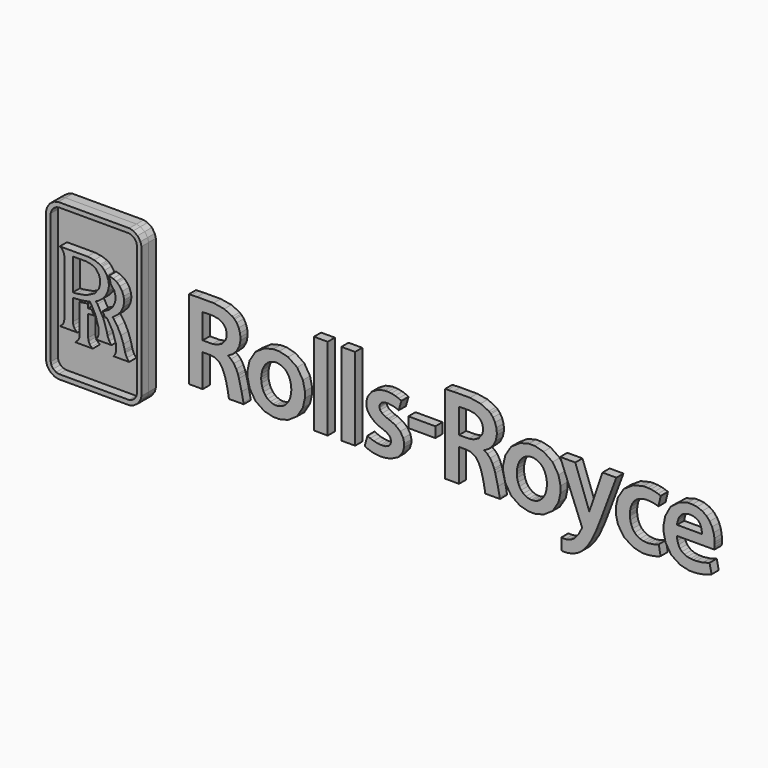
from build123d import *

# Parameters (mm, degrees)
F1_DEPTH = 2.54
F0_W     = 7.659116
F0_H     = 2.943479
F3_DEPTH = 2.54
F5_DEPTH = 0.762
F7_DEPTH = 2.54


with BuildPart() as f1:
    # F0 (on Front) → F1 (new body)
    with BuildSketch(Plane.XZ):
        Polygon((-18.839561, -11.3715292), (-18.648045, -11.3715292), (-14.935835, -11.3715292), (-14.935835, 12.034393), (-18.839561, 12.034393), align=None)
    extrude(amount=F1_DEPTH)

    # F4 (on Front) → F5 (cut)
    with BuildSketch(Plane.XZ):
        Polygon((-82.980657, 2.0863814), (-82.8097658, 2.1552662), (-82.8097658, 7.211187), (-80.1225982, 7.211187), (-80.1708074, 7.350379), (-80.5208448, 7.965059), (-81.0072802, 8.472297), (-81.1244504, 8.557641), (-86.5029004, 8.557641), (-86.3995732, 8.490077), (-86.0922586, 8.275193), (-85.6678246, 7.832725), (-85.3343226, 7.117461), (-85.1992708, 6.293485), (-85.1992708, 6.017895), (-85.1992708, 1.5571978), (-84.9760302, 1.590294), align=None)
    extrude(amount=-F5_DEPTH, mode=Mode.SUBTRACT)


with BuildPart() as f1b:
    # F0 (on Front) → F1, piece 2 (new body)
    with BuildSketch(Plane.XZ):
        Polygon((-11.074781, -11.3715292), (-10.883011, -11.3715292), (-7.169023, -11.3715292), (-7.169023, 12.034393), (-11.074781, 12.034393), align=None)
    extrude(amount=F1_DEPTH)


with BuildPart() as f1c:
    # F0 (on Front) → F1, piece 3 (new body)
    with BuildSketch(Plane.XZ):
        Polygon((51.252755, -15.235555), (51.252755, -18.5001154), (51.679983, -18.5717942), (53.004339, -18.559399), (54.617747, -18.1942232), (56.047005, -17.5024288), (56.973089, -16.8354756), (57.247155, -16.5777672), (57.627393, -16.2181032), (58.640091, -15.0026878), (59.909583, -12.956286), (61.202189, -10.1809042), (62.318265, -7.3669398), (62.668277, -6.4216534), (66.765297, 4.502023), (66.849371, 4.737735), (62.923293, 4.737735), (62.880621, 4.630293), (59.190255, -6.2107826), (55.262653, 4.630293), (55.219981, 4.737735), (50.932969, 4.737735), (51.017043, 4.502023), (57.140983, -10.8396278), (57.018555, -11.1799878), (56.220487, -12.7054864), (55.285005, -13.933297), (55.093235, -14.1262354), (54.912641, -14.2984982), (54.288563, -14.7298156), (53.363749, -15.1266906), (52.344193, -15.300325), (51.519963, -15.281021), align=None)
    extrude(amount=F1_DEPTH)


with BuildPart() as f1d:
    # F0 (on Front) → F1, piece 4 (new body)
    with BuildSketch(Plane.XZ):
        Polygon((43.753405, 5.144135), (42.930699, 5.144135), (42.103675, 5.144135), (39.626159, 4.524121), (37.057711, 2.7836622), (35.392741, 0.1102868), (34.801683, -2.4529034), (34.801683, -3.3086294), (34.801683, -4.1726866), (35.387153, -6.7647566), (37.040947, -9.438132), (39.606855, -11.1648494), (42.099865, -11.7780816), (42.930699, -11.7780816), (43.760263, -11.7780816), (46.248955, -11.1648494), (48.808005, -9.438132), (50.456211, -6.7647566), (51.039141, -4.1726866), (51.039141, -3.3086294), (51.039141, -2.4529034), (50.446559, 0.1102868), (48.784637, 2.7836622), (46.222793, 4.524121), align=None)
        Polygon((43.130597, -8.6416388), (42.908855, -8.6416388), (42.688383, -8.6416388), (42.028237, -8.5438234), (41.219247, -8.2599276), (40.495855, -7.8010258), (39.874063, -7.1795386), (39.364285, -6.4050926), (38.984047, -5.4900576), (38.745541, -4.446905), (38.662991, -3.5759898), (38.662991, -3.2865822), (38.662991, -2.9958284), (38.745541, -2.1249132), (38.984047, -1.0803382), (39.364285, -0.1653286), (39.874063, 0.6091174), (40.495855, 1.2320016), (41.219247, 1.690878), (42.028237, 1.9747484), (42.688383, 2.071243), (42.908855, 2.071243), (43.132121, 2.071243), (43.802935, 1.9747484), (44.620053, 1.690878), (45.346493, 1.2320016), (45.970571, 0.6091174), (46.479333, -0.1653286), (46.858047, -1.0803382), (47.095283, -2.1249132), (47.177833, -2.9958284), (47.177833, -3.2865822), (47.177833, -3.5759898), (47.093759, -4.446905), (46.855253, -5.4900576), (46.473491, -6.4050926), (45.962443, -7.1795386), (45.336841, -7.8010258), (44.610655, -8.2599276), (43.796077, -8.5438234), align=None, mode=Mode.SUBTRACT)
    extrude(amount=F1_DEPTH)


with BuildPart() as f1e:
    # F0 (on Front) → F1, piece 5 (new body)
    with BuildSketch(Plane.XZ):
        Polygon((-28.672409, 5.184267), (-29.510101, 5.184267), (-30.350587, 5.184267), (-32.869759, 4.573651), (-35.431603, 2.8498292), (-37.065839, 0.1805686), (-37.639117, -2.4032464), (-37.639117, -3.264535), (-37.639117, -4.1285922), (-37.065839, -6.7206622), (-35.431603, -9.3954092), (-32.869759, -11.1221266), (-30.350587, -11.7353588), (-29.510101, -11.7353588), (-28.672409, -11.7353588), (-26.154507, -11.1221266), (-23.599775, -9.3954092), (-21.973413, -6.7206622), (-21.401659, -4.1285922), (-21.401659, -3.264535), (-21.401659, -2.4032464), (-21.973413, 0.1805686), (-23.599775, 2.8498292), (-26.154507, 4.573651), align=None)
        Polygon((-29.308679, -8.5975444), (-29.530675, -8.5975444), (-29.751147, -8.5975444), (-30.412563, -8.498332), (-31.221553, -8.21309), (-31.943675, -7.751445), (-32.566737, -7.1271892), (-33.074991, -6.3513462), (-33.455229, -5.4377082), (-33.695259, -4.3972988), (-33.776285, -3.5304984), (-33.776285, -3.2424878), (-33.776285, -2.9517086), (-33.695259, -2.0808188), (-33.455229, -1.0376154), (-33.074991, -0.1226312), (-32.566737, 0.6518402), (-31.943675, 1.2733274), (-31.221553, 1.7322292), (-30.412563, 2.0160996), (-29.751147, 2.1125434), (-29.530675, 2.1125434), (-29.307409, 2.1125434), (-28.637611, 2.0160996), (-27.820239, 1.7322292), (-27.094307, 1.2733274), (-26.469975, 0.6518402), (-25.962991, -0.1226312), (-25.584023, -1.0376154), (-25.347041, -2.0808188), (-25.264237, -2.9517086), (-25.264237, -3.2424878), (-25.264237, -3.5304984), (-25.348311, -4.3972988), (-25.586563, -5.4377082), (-25.968325, -6.3513462), (-26.478357, -7.1271892), (-27.103959, -7.751445), (-27.830145, -8.21309), (-28.643453, -8.498332), align=None, mode=Mode.SUBTRACT)
    extrude(amount=F1_DEPTH)


with BuildPart() as f1f:
    # F0 (on Front) → F1, piece 6 (new body)
    with BuildSketch(Plane.XZ):
        with Locations((11.745595, -0.5980303)):
            Rectangle(F0_W, F0_H)
    extrude(amount=F1_DEPTH)


with BuildPart() as f1g:
    # F0 (on Front) → F1, piece 7 (new body)
    with BuildSketch(Plane.XZ):
        Polygon((-40.082089, -5.2916328), (-40.285035, -4.6522132), (-40.407463, -4.2732706), (-40.867711, -3.1653226), (-41.544367, -2.0325842), (-42.350563, -1.1947398), (-43.061763, -0.7165594), (-43.316525, -0.5980176), (-42.954067, -0.4561078), (-41.935781, 0.1474724), (-40.771191, 1.2802362), (-39.966519, 2.8305252), (-39.666291, 4.325747), (-39.666291, 4.823079), (-39.666291, 5.151247), (-39.788719, 6.134989), (-40.149907, 7.329805), (-40.738425, 8.382635), (-41.321101, 9.068943), (-41.544367, 9.261729), (-41.906825, 9.575927), (-44.256325, 10.693527), (-47.264701, 11.181461), (-48.266731, 11.181461), (-51.423697, 11.181461), (-51.959637, 11.181461), (-53.567711, 11.117961), (-54.281451, 11.117961), (-54.281451, -11.3067592), (-50.356897, -11.3067592), (-50.356897, -2.0904454), (-48.457739, -2.0904454), (-48.057181, -2.0904454), (-46.851189, -2.3219664), (-45.666025, -3.0288992), (-44.788201, -4.233291), (-44.243879, -5.5121048), (-44.104941, -5.9517026), (-43.976417, -6.3444628), (-43.645963, -7.5419712), (-43.323637, -8.9779094), (-43.094529, -10.2443026), (-42.958385, -11.0587282), (-42.910125, -11.3302034), (-38.749859, -11.3067592), (-38.824281, -10.9223048), (-39.325931, -8.3633056), align=None)
        Polygon((-49.160811, 7.959471), (-47.859823, 7.959471), (-47.395511, 7.956931), (-45.999781, 7.725283), (-44.649263, 7.058279), (-43.829097, 5.968365), (-43.550713, 4.837049), (-43.550713, 4.459351), (-43.550713, 4.088765), (-43.880151, 2.972435), (-44.804711, 1.8438368), (-46.233969, 1.1272774), (-47.614713, 0.8750808), (-48.075215, 0.8750808), (-50.356897, 0.8750808), (-50.356897, 7.916799), (-50.234469, 7.916799), (-49.863629, 7.938897), (-49.337341, 7.959471), align=None, mode=Mode.SUBTRACT)
    extrude(amount=F1_DEPTH)


with BuildPart() as f1h:
    # F0 (on Front) → F1, piece 8 (new body)
    with BuildSketch(Plane.XZ):
        Polygon((32.548703, -5.2916328), (32.346011, -4.6522132), (32.223583, -4.2732706), (31.764605, -3.1653226), (31.087949, -2.0325842), (30.281753, -1.1947398), (29.570553, -0.7165594), (29.315537, -0.5980176), (29.678249, -0.4561078), (30.696535, 0.1474724), (31.860871, 1.2802362), (32.665797, 2.8305252), (32.966025, 4.325747), (32.966025, 4.823079), (32.966025, 5.151247), (32.843343, 6.134989), (32.482409, 7.329805), (31.893891, 8.382635), (31.312485, 9.068943), (31.089219, 9.261729), (30.725491, 9.575927), (28.375737, 10.693527), (25.369139, 11.181461), (24.367109, 11.181461), (21.207349, 11.181461), (20.671409, 11.181461), (19.063081, 11.117961), (18.349341, 11.117961), (18.349341, -11.3067592), (22.275165, -11.3067592), (22.275165, -2.0904454), (24.175593, -2.0904454), (24.576659, -2.0904454), (25.781127, -2.3219664), (26.967561, -3.0288992), (27.845131, -4.233291), (28.389453, -5.5121048), (28.528899, -5.9517026), (28.655391, -6.3444628), (28.987877, -7.5419712), (29.308933, -8.9779094), (29.538803, -10.2443026), (29.675455, -11.0587282), (29.723715, -11.3302034), (33.883981, -11.3067592), (33.808035, -10.9223048), (33.306639, -8.3633056), align=None)
        Polygon((23.469981, 7.959471), (24.773509, 7.959471), (25.238075, 7.956931), (26.634059, 7.725283), (27.983053, 7.058279), (28.804489, 5.968365), (29.082619, 4.837049), (29.082619, 4.459351), (29.082619, 4.088765), (28.753435, 2.972435), (27.828875, 1.8438368), (26.399871, 1.1272774), (25.019127, 0.8750808), (24.558625, 0.8750808), (22.275165, 0.8750808), (22.275165, 7.916799), (22.498431, 7.916799), (23.170769, 7.959471), align=None, mode=Mode.SUBTRACT)
    extrude(amount=F1_DEPTH)


with BuildPart() as f1i:
    # F0 (on Front) → F1, piece 9 (new body)
    with BuildSketch(Plane.XZ):
        Polygon((-3.480181, -7.8189582), (-3.669157, -7.7018388), (-4.438015, -10.4757982), (-4.223131, -10.6370628), (-3.495167, -11.0160054), (-2.363851, -11.3949734), (-1.096391, -11.616817), (-0.083185, -11.6912644), (0.255397, -11.6912644), (0.934847, -11.6912644), (2.975737, -11.3164366), (5.011293, -10.2759764), (6.290183, -8.6940136), (6.737731, -7.197471), (6.742049, -6.698615), (6.742049, -6.2796928), (6.457061, -5.0242978), (5.613527, -3.6407344), (4.229989, -2.5314148), (2.815971, -1.8492978), (2.325497, -1.686687), (2.066163, -1.5984982), (1.310005, -1.2843256), (0.490093, -0.7964678), (-0.057023, -0.1928876), (-0.255651, 0.3693414), (-0.255651, 0.556768), (-0.255651, 0.7220966), (-0.140081, 1.2182094), (0.229489, 1.7405096), (0.877189, 2.0863814), (1.594993, 2.2159214), (1.834769, 2.2186646), (2.197227, 2.2242018), (3.725291, 2.0051014), (4.964303, 1.5737586), (5.183505, 1.4717522), (5.952363, 4.076319), (5.762371, 4.186555), (5.161661, 4.464939), (4.188587, 4.799711), (3.068193, 5.032629), (2.142109, 5.120767), (1.834769, 5.120767), (1.225677, 5.120767), (-0.601345, 4.729353), (-2.441067, 3.662807), (-3.607181, 2.0891246), (-4.012057, 0.6504686), (-4.012057, 0.1708912), (-4.012057, -0.1735836), (-3.758565, -1.207135), (-2.974467, -2.4900636), (-1.626489, -3.6214812), (-0.185547, -4.3655742), (0.320421, -4.5447204), (0.644271, -4.6618906), (1.600581, -5.0738786), (2.421763, -5.6030622), (2.857119, -6.2149228), (2.986913, -6.8019676), (2.986913, -6.9976492), (2.986913, -7.1905622), (2.836799, -7.7721206), (2.362581, -8.3343242), (1.527683, -8.6761066), (0.605663, -8.7918544), (0.298577, -8.7918544), (0.024003, -8.7918544), (-0.798703, -8.6995254), (-1.885823, -8.4556092), (-2.872613, -8.1069688), align=None)
    extrude(amount=F1_DEPTH)


with BuildPart() as f1j:
    # F0 (on Front) → F1, piece 10 (new body)
    with BuildSketch(Plane.XZ):
        Polygon((79.211805, -10.861675), (79.396209, -10.7748578), (78.864587, -7.9815436), (78.665959, -8.0656176), (77.461491, -8.4501228), (76.014453, -8.663686), (75.533631, -8.663686), (75.272011, -8.663686), (74.486389, -8.5741256), (73.546589, -8.3095338), (72.722359, -7.8726792), (72.026653, -7.270496), (71.465821, -6.5056766), (71.053833, -5.5837836), (70.798563, -4.5089064), (70.711949, -3.5911282), (70.711949, -3.2865822), (70.709155, -3.006852), (70.778243, -2.1703792), (70.994397, -1.1561572), (71.362443, -0.2576576), (71.884413, 0.509905), (72.563863, 1.1327892), (73.400539, 1.5971774), (74.396981, 1.885188), (75.264899, 1.9844258), (75.555983, 1.9844258), (76.034011, 1.9844258), (77.468603, 1.8355818), (78.586203, 1.5158466), (78.756891, 1.4304518), (79.438881, 4.266311), (79.252953, 4.353179), (78.674341, 4.568317), (77.726159, 4.837049), (76.641833, 5.027041), (75.762485, 5.100193), (75.470131, 5.100193), (74.533125, 5.100193), (71.723377, 4.442841), (68.973065, 2.6307034), (67.277869, -0.0840232), (66.700527, -2.6141172), (66.700527, -3.4574734), (66.700527, -4.2966894), (67.316477, -6.8185284), (69.022341, -9.392666), (71.604759, -11.0476792), (74.037063, -11.6416328), (74.850371, -11.6499132), (75.214099, -11.6499132), (76.309347, -11.5672108), (77.586713, -11.3563654), (78.631415, -11.0725204), align=None)
    extrude(amount=F1_DEPTH)


with BuildPart() as f1k:
    # F0 (on Front) → F1, piece 11 (new body)
    with BuildSketch(Plane.XZ):
        Polygon((84.033487, -4.4896278), (84.025105, -4.2043604), (94.652465, -4.1809416), (94.673293, -4.0899842), (94.726887, -3.5098482), (94.738063, -2.8139136), (94.738063, -2.5823926), (94.738063, -2.2654514), (94.659577, -1.3146278), (94.408625, -0.0068834), (93.963363, 1.277493), (93.296613, 2.4736044), (92.387293, 3.515487), (91.208987, 4.340987), (89.738581, 4.883785), (88.399239, 5.078095), (87.953977, 5.078095), (87.126953, 5.078095), (84.647913, 4.378071), (82.225515, 2.4915368), (80.734281, -0.2494026), (80.227297, -2.702306), (80.227297, -3.5208464), (80.227297, -4.354576), (80.779747, -6.8556886), (82.377153, -9.4519242), (84.926297, -11.1358934), (87.484077, -11.7353588), (88.337009, -11.7353588), (88.761443, -11.7353588), (90.038809, -11.6333778), (91.528519, -11.368786), (92.798011, -11.0049564), (93.584649, -10.7142026), (93.842459, -10.6053382), (93.266387, -7.915402), (92.978097, -8.027035), (91.353513, -8.4680044), (89.475437, -8.6857332), (88.849581, -8.6857332), (88.601677, -8.6857332), (87.861521, -8.627872), (86.957789, -8.4501228), (86.150069, -8.1386426), (85.452839, -7.6853034), (84.878037, -7.0748144), (84.439887, -6.2989714), (84.150581, -5.3453792), align=None)
        Polygon((91.090369, -1.2939522), (91.089099, -1.4496542), (84.047203, -1.4496542), (84.065237, -1.2815316), (84.149311, -0.7799578), (84.322793, -0.1157478), (84.583397, 0.5167884), (84.945855, 1.091438), (85.423883, 1.5833852), (86.035769, 1.9664934), (86.794975, 2.2159214), (87.486871, 2.3041102), (87.718265, 2.3041102), (87.963883, 2.3041102), (88.702261, 2.209038), (89.479247, 1.9430746), (90.073353, 1.5378938), (90.507185, 1.026668), (90.802333, 0.4410202), (90.981403, -0.1887728), (91.069541, -0.828167), align=None, mode=Mode.SUBTRACT)
    extrude(amount=F1_DEPTH)


with BuildPart() as f1l:
    # F0 (on Front) → F1, piece 12 (new body)
    with BuildSketch(Plane.XZ):
        Polygon((-67.703827, -18.264505), (-67.703827, 18.266029), (-67.703827, 18.638139), (-68.004055, 19.754215), (-68.821427, 20.966811), (-70.0353692, 21.785199), (-71.1515468, 22.084411), (-71.5236314, 22.084411), (-90.9195286, 22.084411), (-91.2915878, 22.084411), (-92.4077908, 21.785199), (-93.62186, 20.966811), (-94.4390288, 19.754215), (-94.738063, 18.638139), (-94.738063, 18.266029), (-94.738063, -18.264505), (-94.738063, -18.6351926), (-94.4390288, -19.7513956), (-93.62186, -20.9654394), (-92.4077908, -21.7840052), (-91.2915878, -22.084411), (-90.9195286, -22.084411), (-71.5236314, -22.084411), (-71.1515468, -22.084411), (-70.0353692, -21.7840052), (-68.821427, -20.9654394), (-68.004055, -19.7513956), (-67.703827, -18.6351926), align=None)
        Polygon((-93.437202, -18.264505), (-93.437202, 18.266029), (-93.437202, 18.511139), (-93.2387518, 19.244183), (-92.69857, 20.045045), (-91.8979366, 20.585049), (-91.1648164, 20.782407), (-90.9195286, 20.782407), (-71.5236314, 20.782407), (-71.276972, 20.782407), (-70.5328282, 20.585049), (-69.726683, 20.045045), (-69.183631, 19.244183), (-68.983987, 18.511139), (-68.983987, 18.266029), (-68.983987, -18.264505), (-68.983987, -18.5084212), (-69.183631, -19.2428876), (-69.726683, -20.0435464), (-70.5328282, -20.5837282), (-71.276972, -20.782153), (-71.5236314, -20.782153), (-90.9195286, -20.782153), (-91.1648164, -20.782153), (-91.8979366, -20.5837282), (-92.69857, -20.0435464), (-93.2387518, -19.2428876), (-93.437202, -18.5084212), align=None, mode=Mode.SUBTRACT)
    extrude(amount=F1_DEPTH)


with BuildPart() as f3:
    # F2 (on Front) → F3 (new body)
    with BuildSketch(Plane.XZ):
        Polygon((-82.8097658, -9.0633042), (-82.8097658, -8.7918544), (-82.8097658, -3.0509464), (-82.6719708, -3.0454092), (-81.3214782, -2.9751528), (-81.187798, -2.9641292), (-81.2374296, -2.8525216), (-81.7500524, -1.7500854), (-81.807939, -1.6439642), (-81.8878474, -1.6535908), (-82.7256918, -1.7018508), (-82.8097658, -1.7073626), (-82.8097658, -0.5126228), (-82.997167, -0.5553456), (-84.9925656, -0.8736584), (-85.1992708, -0.8957056), (-85.1992708, -8.7918544), (-85.1992708, -9.0633042), (-85.3343226, -9.8804984), (-85.6678246, -10.5957116), (-86.0922586, -11.0435644), (-86.3981762, -11.2612932), (-86.5029004, -11.3302034), (-81.5089048, -11.3302034), (-81.6108858, -11.2599216), (-81.9112662, -11.0435644), (-82.3357002, -10.5957116), (-82.6733424, -9.8804984), align=None)
    extrude(amount=F3_DEPTH)


with BuildPart() as f3b:
    # F2 (on Front) → F3, piece 2 (new body)
    with BuildSketch(Plane.XZ):
        Polygon((-75.6191528, -11.3067592), (-71.203947, -11.3067592), (-71.3059026, -11.2103154), (-71.8474814, -10.5268014), (-72.3146128, -9.4464378), (-72.3780112, -9.15289), (-72.4744804, -8.7077804), (-72.8341698, -7.3876154), (-73.536937, -5.4321964), (-74.5401608, -3.4492184), (-75.5171718, -2.0243038), (-75.8975114, -1.5998698), (-75.5351042, -1.401445), (-74.5319058, -0.6504178), (-73.5052378, 0.5154168), (-72.8589602, 1.876933), (-72.6329256, 3.0303216), (-72.6329256, 3.413379), (-72.6301824, 3.702939), (-72.7666058, 4.571111), (-73.185528, 5.688711), (-73.8732076, 6.700139), (-74.5525306, 7.357491), (-74.8088674, 7.532497), (-74.959083, 7.628763), (-75.7886724, 8.028559), (-76.7353558, 8.320659), (-76.943458, 8.363331), (-76.8690614, 8.203565), (-76.4197862, 6.529197), (-76.408788, 6.358255), (-76.1910592, 6.187313), (-75.409679, 5.080889), (-75.0652042, 3.799205), (-75.0652042, 3.372231), (-75.0652042, 3.0647894), (-75.237467, 2.1387562), (-75.825858, 0.9136634), (-76.9475982, -0.191516), (-78.252574, -0.9094978), (-78.714219, -1.0665714), (-78.6563832, -1.1782044), (-78.0996152, -2.3205948), (-78.0513806, -2.4335994), (-78.0141696, -2.4225504), (-77.6421358, -2.3150576), (-77.6035278, -2.305431), (-77.2741914, -2.6885138), (-75.8740926, -5.1331622), (-74.9742468, -7.9305658), (-74.894313, -8.4914232), (-74.857102, -8.7546434), (-74.8557304, -9.5607886), (-75.0252246, -10.3641906), (-75.3118636, -10.9333284), (-75.5351042, -11.2213136), align=None)
    extrude(amount=F3_DEPTH)


with BuildPart() as f3c:
    # F2 (on Front) → F3, piece 3 (new body)
    with BuildSketch(Plane.XZ):
        Polygon((-80.5911012, -8.7257128), (-76.1744984, -8.7257128), (-76.2819912, -8.6292436), (-76.833222, -7.9443834), (-77.2893552, -6.8639944), (-77.3472164, -6.5718182), (-77.4657582, -6.0330334), (-78.4634448, -2.9007562), (-80.1652956, 0.2301494), (-80.633824, 0.768985), (-80.6131484, 0.7800086), (-80.4216324, 0.8654542), (-80.3995852, 0.8750808), (-80.0192202, 1.0693908), (-78.9622754, 1.8231612), (-77.8818864, 3.0124146), (-77.2011664, 4.413885), (-76.9641336, 5.600319), (-76.9641336, 5.995797), (-76.9613904, 6.287897), (-77.0977884, 7.163181), (-77.5167106, 8.280781), (-78.2043648, 9.285351), (-78.8851102, 9.939909), (-79.1400754, 10.113391), (-79.4184086, 10.300843), (-81.0968406, 10.916793), (-83.006819, 11.159363), (-83.6434954, 11.159363), (-90.834083, 11.159363), (-90.7307304, 11.091799), (-90.4247874, 10.874121), (-89.9989818, 10.427589), (-89.6668768, 9.711055), (-89.5318504, 8.893937), (-89.5318504, 8.621141), (-89.5318504, -6.1873638), (-89.5318504, -6.4615822), (-89.6668768, -7.2856598), (-89.9989818, -8.0008476), (-90.4247874, -8.4431886), (-90.7307304, -8.6581742), (-90.834083, -8.7257128), (-85.840062, -8.7257128), (-85.942043, -8.6568026), (-86.2411026, -8.4431886), (-86.6668828, -8.0008476), (-87.0044996, -7.2856598), (-87.140923, -6.4615822), (-87.140923, -6.1873638), (-87.140923, -0.4492244), (-86.5111808, -0.4492244), (-84.6177378, -0.2962656), (-82.710528, 0.038608), (-82.3632846, 0.1281684), (-82.0490612, -0.2494026), (-80.755109, -2.6389076), (-79.9420804, -5.3495194), (-79.8662614, -5.8897012), (-79.831819, -6.1542676), (-79.8359592, -6.9631814), (-80.0054534, -7.7721206), (-80.2865806, -8.3495134), (-80.507078, -8.6402672), align=None)
        Polygon((-86.1804474, 0.8916162), (-87.140923, 0.8750808), (-87.140923, 9.836531), (-83.7495912, 9.836531), (-83.4409304, 9.832467), (-82.1179968, 9.626981), (-81.0513746, 9.175115), (-80.8694852, 9.046845), (-80.6297092, 8.875903), (-79.7739324, 7.743317), (-79.3963614, 6.417437), (-79.3963614, 5.975223), (-79.3963614, 5.547995), (-79.7312096, 4.266311), (-80.9342552, 2.6417016), (-83.3044562, 1.4084046), align=None, mode=Mode.SUBTRACT)
    extrude(amount=F3_DEPTH)


with BuildPart() as f7:
    # F6 (on Front) → F7 (new body)
    with BuildSketch(Plane.XZ):
        Polygon((-67.703827, -18.264505), (-67.703827, 18.266029), (-67.703827, 18.638139), (-68.004055, 19.754215), (-68.821427, 20.966811), (-70.0353692, 21.785199), (-71.1515468, 22.084411), (-71.5236314, 22.084411), (-90.9195286, 22.084411), (-91.2915878, 22.084411), (-92.4077908, 21.785199), (-93.62186, 20.966811), (-94.4390288, 19.754215), (-94.738063, 18.638139), (-94.738063, 18.266029), (-94.738063, -18.264505), (-94.738063, -18.6351926), (-94.4390288, -19.7513956), (-93.62186, -20.9654394), (-92.4077908, -21.7840052), (-91.2915878, -22.084411), (-90.9195286, -22.084411), (-71.5236314, -22.084411), (-71.1515468, -22.084411), (-70.0353692, -21.7840052), (-68.821427, -20.9654394), (-68.004055, -19.7513956), (-67.703827, -18.6351926), align=None)
    extrude(amount=-F7_DEPTH)


solid = Compound([f1.part, f1b.part, f1c.part, f1d.part, f1e.part, f1f.part, f1g.part, f1h.part, f1i.part, f1j.part, f1k.part, f1l.part, f3.part, f3b.part, f3c.part, f7.part])
